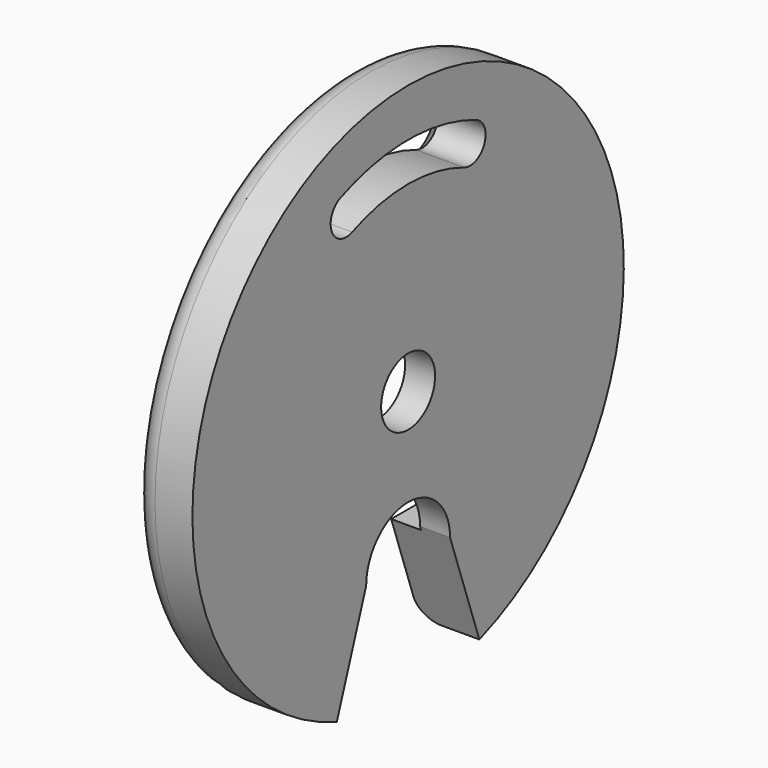
from build123d import *

# Parameters (mm, degrees)
SKETCH176_R     = 2.25
PAD098_DEPTH    = 4
SKETCH177_W     = 20.5
SKETCH177_H     = 20.5
POCKET040_DEPTH = 2
CHAMFER002_SIZE = 0.8
FILLET008_R     = 1.5


with BuildPart() as part:
    # Sketch176 → Pad098 (new body)
    with BuildSketch(Plane.YZ):
        with BuildLine():
            ThreePointArc((5.946308, -16.98945), (0, 18), (-5.946308, -16.98945))
            Line((-3.5, -10), (-5.946308, -16.98945))
            ThreePointArc((3.5, -10), (0, -6.5), (-3.5, -10))
            Line((5.946308, -16.98945), (3.5, -10))
        make_face()
        Circle(SKETCH176_R, mode=Mode.SUBTRACT)
        with BuildLine():
            ThreePointArc((-5.663715, 13.673417), (-6.36727, 11.974885), (-4.668738, 11.27133))
            ThreePointArc((4.668738, 11.27133), (0, 12.2), (-4.668738, 11.27133))
            ThreePointArc((4.668738, 11.27133), (6.36727, 11.974885), (5.663715, 13.673417))
            ThreePointArc((5.663715, 13.673417), (0, 14.8), (-5.663715, 13.673417))
        make_face(mode=Mode.SUBTRACT)
    extrude(amount=PAD098_DEPTH)

    # Sketch177 (on Face10 of Pad098) → Pocket040 (cut)
    with BuildSketch(Plane(origin=(0, 0, 0), x_dir=(0, 1, 0), z_dir=(-1, 0, 0))):
        Rectangle(SKETCH177_W, SKETCH177_H)
    extrude(amount=-POCKET040_DEPTH, mode=Mode.SUBTRACT)

    # Chamfer002
    chamfer002_edges = [part.edges().sort_by_distance(p)[0] for p in [
        (0, 6.36727, 11.974885),
        (0, 0, 14.8),
        (0, 0, 12.2),
        (0, -6.36727, 11.974885),
    ]]
    chamfer(chamfer002_edges, length=CHAMFER002_SIZE)

    # Fillet008
    fillet008_edges = [part.edges().sort_by_distance(p)[0] for p in [
        (0, 0, 18),
    ]]
    fillet(fillet008_edges, radius=FILLET008_R)


with BuildPart() as part_1:
    # Body140 placement: moved
    add(part.part.moved(Location((-11, 0, 54))))


solid = part_1.part
